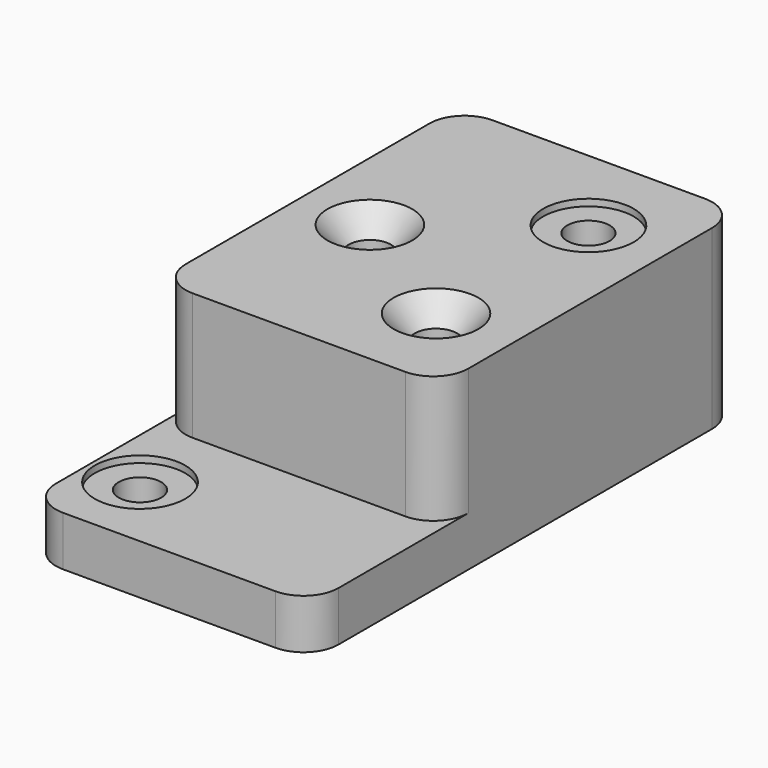
from build123d import *

# Parameters (mm, degrees)
F0_W           = 72.898
F0_H           = 22.352
F0_W_2         = 168.402
F0_H_2         = 57.15
F1_DEPTH       = 127
F2_R           = 15.748
F4_D           = 19.05
F4_CSINK_D     = 38.1
F4_CSINK_ANGLE = 82
F5_D           = 19.05
F5_START       = 57.15
F5_CBORE_D     = 40.64
F5_CBORE_DEPTH = 3.048


with BuildPart() as f1:
    # F0 (on Right) → F1 (new body)
    with BuildSketch(Plane.YZ):
        with Locations((36.449, 11.176)):
            Rectangle(F0_W, F0_H)
        with Locations((157.099, 11.176)):
            Rectangle(F0_W_2, F0_H)
        with Locations((157.099, 50.927)):
            Rectangle(F0_W_2, F0_H_2)
    extrude(amount=F1_DEPTH)

    # F2
    f2_edges = [f1.edges().sort_by_distance(p)[0] for p in [
        (127, 72.898, 50.927),
        (127, 0, 11.176),
        (127, 241.3, 39.751),
        (0, 72.898, 50.927),
        (0, 0, 11.176),
        (0, 241.3, 39.751),
    ]]
    fillet(f2_edges, radius=F2_R)

    # F4 (through all)
    with Locations(Plane.XY.offset(79.502)):
        with Locations((31.75, 152.4), (91.948, 114.3)):
            CounterSinkHole(F4_D / 2, F4_CSINK_D / 2, counter_sink_angle=F4_CSINK_ANGLE)

    # F5 (through all)
    # its depths count from where the whole tool has entered the part; down to there all is cleared
    with Locations(Plane.XY.offset(79.502)):
        with Locations((91.948, 199.898, 0), (22.352, 35.052, -F5_START)):
            CounterBoreHole(F5_D / 2, F5_CBORE_D / 2, F5_CBORE_DEPTH)


solid = f1.part
